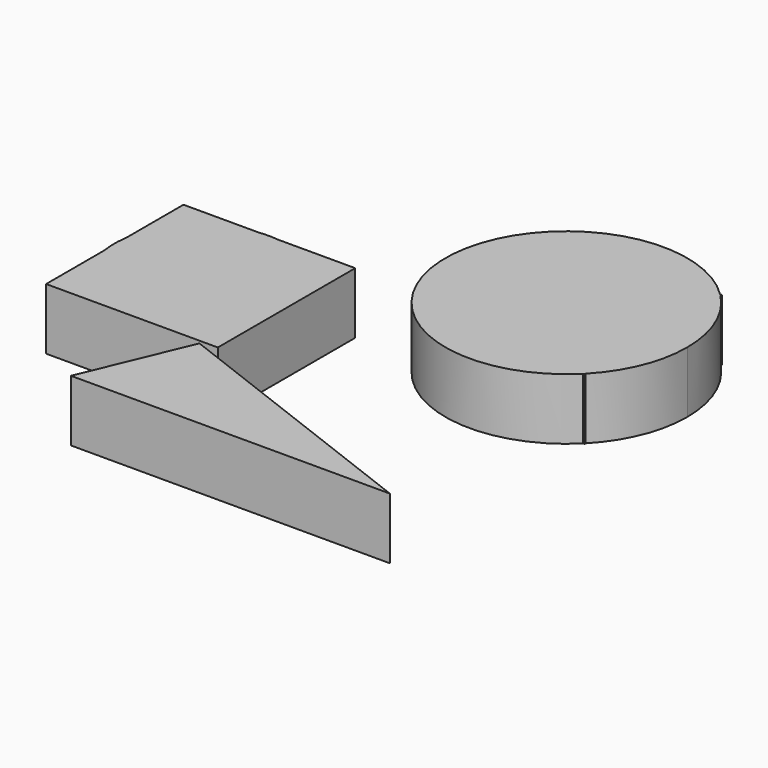
from build123d import *

# Parameters (mm, degrees)
F1_DEPTH = 25


with BuildPart() as f1:
    # F0 (on Top) → F1 (new body)
    with BuildSketch(Plane.XY):
        with BuildLine():
            Line((0, 90.8575442151), (0, 20.8914719523))
            Line((0, 20.8914719523), (69.4212459708, 20.8914719523))
            ThreePointArc((69.4212459708, 20.8914719523), (69.7118470145, 21.1832320959), (70, 21.4774102816))
            Line((70, 21.4774102816), (70, 90.1521279564))
            ThreePointArc((70, 90.1521279564), (69.6351955614, 90.5237377084), (69.2664848185, 90.8914719523))
            Line((69.2664848185, 90.8914719523), (0.0343455458, 90.8914719523))
            ThreePointArc((0.0343455458, 90.8914719523), (0.0171686183, 90.8745122894), (0, 90.8575442151))
        make_face()
        with BuildLine():
            Line((69.4212459708, 20.8914719523), (0, 20.8914719523))
            Line((0, 20.8914719523), (0, 90.8575442151))
            ThreePointArc((0, 90.8575442151), (-0.3326727598, 21.1040947266), (69.4212459708, 20.8914719523))
        make_face()
        with BuildLine():
            ThreePointArc((70, 21.4774102816), (69.7118470145, 21.1832320959), (69.4212459708, 20.8914719523))
            Line((69.4212459708, 20.8914719523), (70, 20.8914719523))
            Line((70, 20.8914719523), (70, 21.4774102816))
        make_face()
        with BuildLine():
            Line((0, 90.8914719523), (0, 90.8575442151))
            ThreePointArc((0, 90.8575442151), (0.0171686183, 90.8745122894), (0.0343455458, 90.8914719523))
            Line((0.0343455458, 90.8914719523), (0, 90.8914719523))
        make_face()
        with BuildLine():
            Line((70, 90.1521279564), (70, 21.4774102816))
            ThreePointArc((70, 21.4774102816), (80.3161635629, 37.2867691311), (83.9317235934, 55.814769119))
            ThreePointArc((83.9317235934, 55.814769119), (80.3161635629, 74.342769107), (70, 90.1521279564))
        make_face()
        with BuildLine():
            ThreePointArc((69.2664848185, 90.8914719523), (34.6504151821, 105.0960775303), (0.0343455458, 90.8914719523))
            Line((0.0343455458, 90.8914719523), (69.2664848185, 90.8914719523))
        make_face()
        with BuildLine():
            ThreePointArc((69.2664848185, 90.8914719523), (69.6351955614, 90.5237377084), (70, 90.1521279564))
            Line((70, 90.1521279564), (70, 90.8914719523))
            Line((70, 90.8914719523), (69.2664848185, 90.8914719523))
        make_face()
    extrude(amount=F1_DEPTH)


with BuildPart() as f1b:
    # F0 (on Top) → F1, piece 2 (new body)
    with BuildSketch(Plane.XY):
        with BuildLine():
            Line((-72.1971484777, 32.4358825386), (-102.6861071587, 32.4358825386))
            Line((-102.6861071587, 32.4358825386), (-102.6861071587, 3.2767011646))
            ThreePointArc((-102.6861071587, 3.2767011646), (-92.3343982655, 22.972192538), (-72.1971484777, 32.4358825386))
        make_face()
        with BuildLine():
            ThreePointArc((-64.1342756394, 32.4358825386), (-68.1657120585, 32.6690524463), (-72.1971484777, 32.4358825386))
            Line((-72.1971484777, 32.4358825386), (-64.1342756394, 32.4358825386))
        make_face()
        with BuildLine():
            Line((-64.1342756394, 32.4358825386), (-72.1971484777, 32.4358825386))
            ThreePointArc((-72.1971484777, 32.4358825386), (-92.3343982655, 22.972192538), (-102.6861071587, 3.2767011646))
            Line((-102.6861071587, 3.2767011646), (-102.6861071587, -7.8740693491))
            ThreePointArc((-102.6861071587, -7.8740693491), (-65.3690607072, -37.1544058585), (-33.19797552, -2.2986840922))
            ThreePointArc((-33.19797552, -2.2986840922), (-42.0533318031, 20.9582760709), (-64.1342756394, 32.4358825386))
        make_face()
        with BuildLine():
            Line((-102.6861071587, -7.8740693491), (-102.6861071587, 3.2767011646))
            ThreePointArc((-102.6861071587, 3.2767011646), (-103.1334485971, -2.2986840922), (-102.6861071587, -7.8740693491))
        make_face()
        with BuildLine():
            Line((-32.6861071587, 32.4358825386), (-64.1342756394, 32.4358825386))
            ThreePointArc((-64.1342756394, 32.4358825386), (-42.0533318031, 20.9582760709), (-33.19797552, -2.2986840922))
            ThreePointArc((-33.19797552, -2.2986840922), (-65.3690607072, -37.1544058585), (-102.6861071587, -7.8740693491))
            Line((-102.6861071587, -7.8740693491), (-102.6861071587, -37.5641174614))
            Line((-102.6861071587, -37.5641174614), (-32.6861071587, -37.5641174614))
            Line((-32.6861071587, -37.5641174614), (-32.6861071587, 32.4358825386))
        make_face()
    extrude(amount=F1_DEPTH)


with BuildPart() as f1c:
    # F0 (on Top) → F1, piece 3 (new body)
    with BuildSketch(Plane.XY):
        with BuildLine():
            Line((-46.5364518579, -57.0023388426), (-56.9900460541, -82.0184350014))
            Line((-56.9900460541, -82.0184350014), (73.0099539459, -82.0184350014))
            Line((73.0099539459, -82.0184350014), (-39.0196972338, -39.0142810559))
            Line((-39.0196972338, -39.0142810559), (-45.9210690424, -55.5296897806))
            ThreePointArc((-45.9210690424, -55.5296897806), (-25.1471062076, -45.3361467034), (-10.6750561446, -63.3923262358))
            ThreePointArc((-10.6750561446, -63.3923262358), (-32.4203742571, -81.6054509086), (-46.5364518579, -57.0023388426))
        make_face()
        with BuildLine():
            ThreePointArc((-45.9210690424, -55.5296897806), (-46.2446491203, -56.259374838), (-46.5364518579, -57.0023388426))
            Line((-46.5364518579, -57.0023388426), (-45.9210690424, -55.5296897806))
        make_face()
        with BuildLine():
            Line((-45.9210690424, -55.5296897806), (-46.5364518579, -57.0023388426))
            ThreePointArc((-46.5364518579, -57.0023388426), (-32.4203742571, -81.6054509086), (-10.6750561446, -63.3923262358))
            ThreePointArc((-10.6750561446, -63.3923262358), (-25.1471062076, -45.3361467034), (-45.9210690424, -55.5296897806))
        make_face()
    extrude(amount=F1_DEPTH)


solid = Compound([f1.part, f1b.part, f1c.part])
